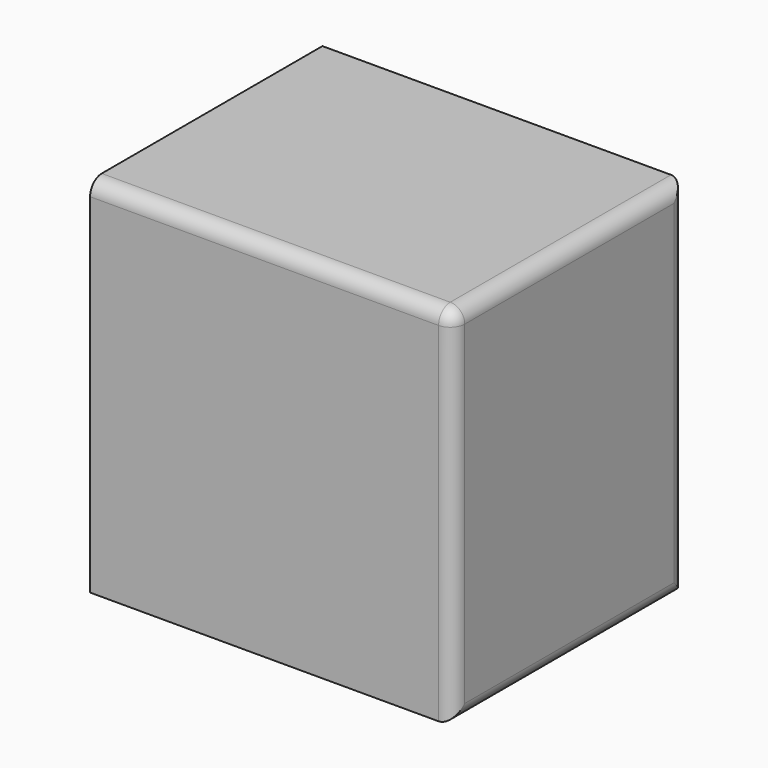
from build123d import *

# Parameters (mm, degrees)
F0_W     = 50
F0_H     = 40
F1_DEPTH = 50
F2_R     = 2


with BuildPart() as f1:
    # F0 (on Top) → F1 (new body)
    with BuildSketch(Plane.XY):
        with Locations((26.858736, -20)):
            Rectangle(F0_W, F0_H)
    extrude(amount=F1_DEPTH)

    # F2
    f2_edges = [f1.edges().sort_by_distance(p)[0] for p in [
        (26.858736, -40, 50),
        (51.858736, -40, 25),
        (51.858736, 0, 25),
        (51.858736, -20, 0),
        (51.858736, -20, 50),
    ]]
    fillet(f2_edges, radius=F2_R)


solid = f1.part
